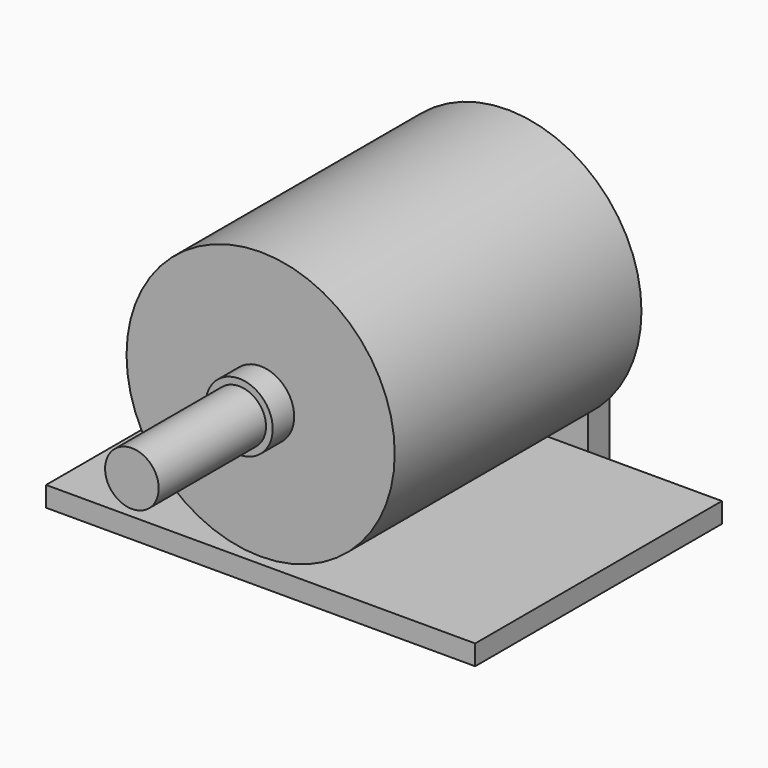
from build123d import *

# Parameters (mm, degrees)
F0_R     = 10
F0_W     = 32
F0_H     = 1.5
F1_DEPTH = 23
F2_R     = 2.5
F3_DEPTH = 2
F4_R     = 2
F5_DEPTH = 10
F6_W     = 12
F6_H     = 12
F7_DEPTH = 2


with BuildPart() as f1:
    # F0 (on Front) → F1 (new body)
    with BuildSketch(Plane.XZ):
        with Locations((0, 12)):
            Circle(F0_R)
        with Locations((0, 0.75)):
            Rectangle(F0_W, F0_H)
    extrude(amount=F1_DEPTH)

    # F2 (on face) → F3 (join)
    with BuildSketch(Plane.XZ.offset(23)):
        with Locations((0, 12)):
            Circle(F2_R)
    extrude(amount=F3_DEPTH)

    # F4 (on face) → F5 (join)
    with BuildSketch(Plane.XZ.offset(25)):
        with Locations((0, 12)):
            Circle(F4_R)
    extrude(amount=F5_DEPTH)

    # F6 (on face) → F7 (join)
    with BuildSketch(Plane(origin=(0, 0, 0), x_dir=(-1, 0, 0), z_dir=(0, 1, 0))):
        with BuildLine():
            ThreePointArc((6, 12), (0, 18), (-6, 12))
            Line((-6, 12), (6, 12))
        make_face()
        with Locations((0, 6)):
            Rectangle(F6_W, F6_H)
    extrude(amount=F7_DEPTH)


solid = f1.part
